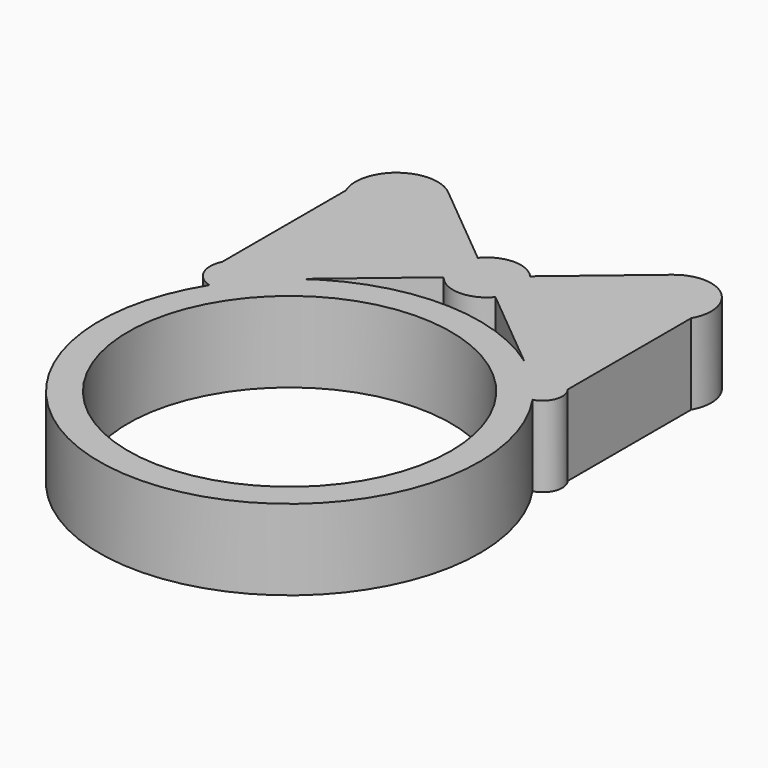
from build123d import *

# Parameters (mm, degrees)
F0_R     = 7.632102
F1_DEPTH = 3.81


with BuildPart() as f1:
    # F0 (on Top) → F1 (new body)
    with BuildSketch(Plane.XY):
        with BuildLine():
            Line((5.197967, 16.103169), (1.190881, 12.734461))
            ThreePointArc((1.190881, 12.734461), (-0.038882, 13.265239), (-1.24141, 12.675351))
            Line((-1.24141, 12.675351), (-5.386277, 16.103169))
            ThreePointArc((-5.386277, 16.103169), (-7.79335, 16.160614), (-8.413262, 13.834026))
            Line((-8.413262, 13.834026), (-8.413262, 6.535733))
            ThreePointArc((-8.413262, 6.535733), (-8.429756, 5.47259), (-7.618259, 4.785555))
            ThreePointArc((-7.618259, 4.785555), (0.177616, -8.99488), (7.4234, 5.082572))
            ThreePointArc((7.4234, 5.082572), (8.064227, 5.674564), (7.924576, 6.535733))
            Line((7.924576, 6.535733), (7.924576, 13.834026))
            ThreePointArc((7.924576, 13.834026), (7.510279, 16.108928), (5.197967, 16.103169))
        make_face()
        Circle(F0_R, mode=Mode.SUBTRACT)
        with BuildLine():
            Line((1.225092, 10.635545), (5.259149, 7.299367))
            ThreePointArc((5.259149, 7.299367), (-0.072619, 8.99634), (-5.376297, 7.213518))
            Line((-5.376297, 7.213518), (-1.257859, 10.675837))
            ThreePointArc((-1.257859, 10.675837), (-0.025967, 10.065126), (1.225092, 10.635545))
        make_face(mode=Mode.SUBTRACT)
    extrude(amount=F1_DEPTH)


solid = f1.part
